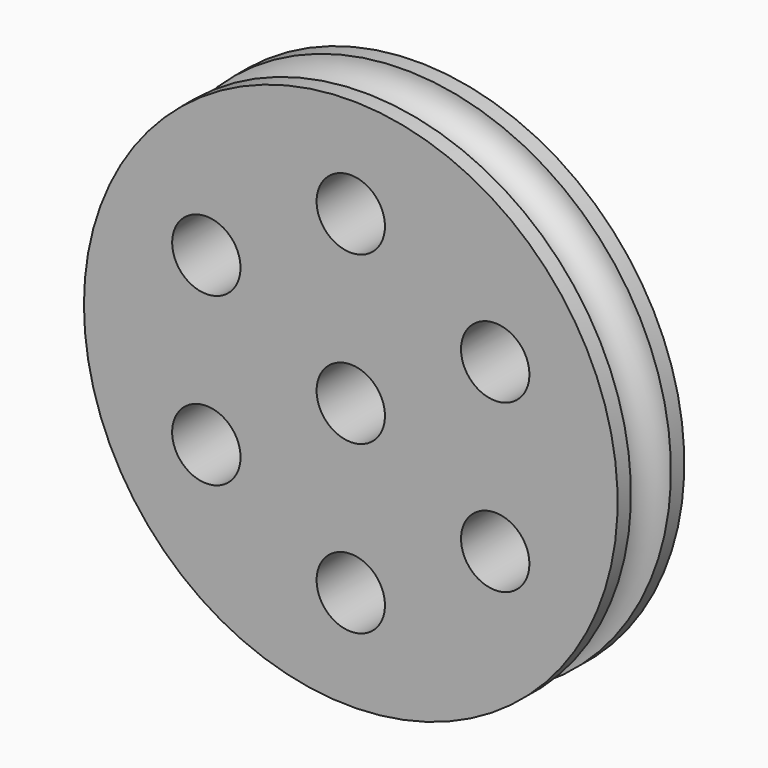
from build123d import *

# Parameters (mm, degrees)
SKETCH001_R        = 2.05
POCKET_DEPTH       = 96.06142
POLARPATTERN_COUNT = 6


with BuildPart() as part:
    # Sketch → Revolution (revolve)
    with BuildSketch(Plane.XY):
        with BuildLine():
            Line((-2.05, 2.5), (-2.05, -2.5))
            Line((-2.05, -2.5), (-16, -2.5))
            Line((-16, -2.5), (-16, -1.5))
            ThreePointArc((-16, -1.5), (-14.5, 0), (-16, 1.5))
            Line((-16, 1.5), (-16, 2.5))
            Line((-16, 2.5), (-2.05, 2.5))
        make_face()
    revolve(axis=Axis((0, 0, 0), (0, 1, 0)))

    # Sketch001 → Pocket (cut, through all)
    with BuildSketch(Plane.XZ.offset(2.5)):
        with Locations((0, 10)):
            Circle(SKETCH001_R)
    pocket = extrude(amount=-POCKET_DEPTH, mode=Mode.SUBTRACT)

    # PolarPattern: Pocket ×6 about axis
    polarpattern_axis = Axis((0, -2.5, 0), (0, -1, 0))
    for i in range(1, POLARPATTERN_COUNT):
        add(pocket.rotate(polarpattern_axis, i * 360 / POLARPATTERN_COUNT), mode=Mode.SUBTRACT)


solid = part.part
